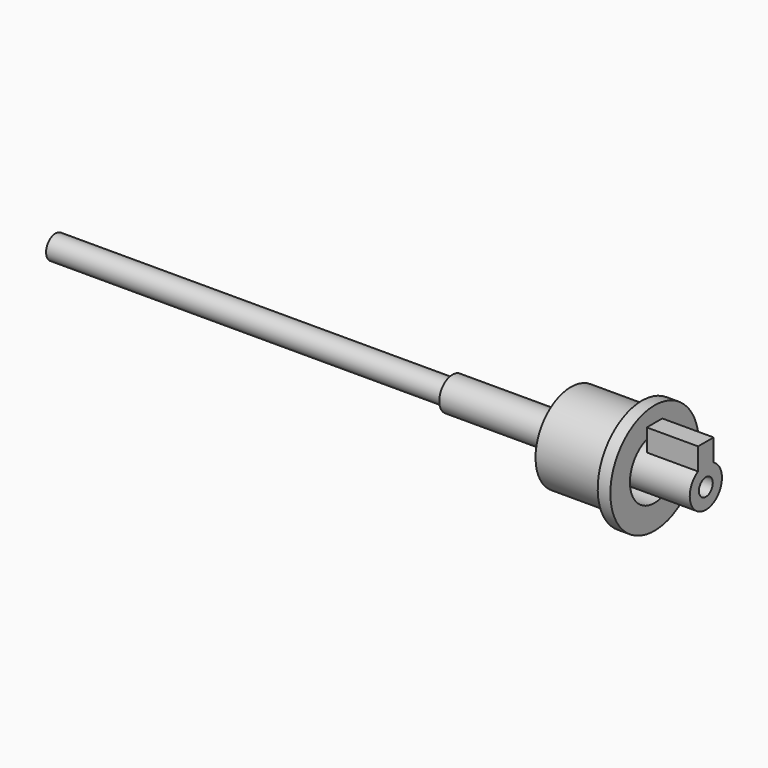
from build123d import *

# Parameters (mm, degrees)
F2_R     = 1.1
F3_DEPTH = 7
F5_DEPTH = 6.5


with BuildPart() as f1:
    # F0 (on Front) → F1 (revolve)
    with BuildSketch(Plane.XZ):
        Polygon((18.140339697, 28.0600738525), (-32.159660303, 28.0600738525), (-32.159660303, 26.5600738525), (50.240339697, 26.5600738525), (50.240339697, 29.1100738525), (36.640339697, 29.1100738525), (36.640339697, 30.4600738525), (43.740339697, 30.4600738525), (43.740339697, 33.5600738525), (42.140339697, 33.5600738525), (42.140339697, 32.1600738525), (33.140339697, 32.1600738525), (33.140339697, 28.6600738525), (18.140339697, 28.6600738525), align=None)
    revolve(axis=Axis((9.040339697, 0, 26.5600738525), (-1, 0, 0)))

    # F2 (on face) → F3 (cut)
    with BuildSketch(Plane.YZ.offset(50.240339697)):
        with Locations((0, 26.5600738525)):
            Circle(F2_R)
    extrude(amount=-F3_DEPTH, mode=Mode.SUBTRACT)

    # F4 (on face) → F5 (join, through all)
    with BuildSketch(Plane.YZ.offset(50.240339697)):
        with BuildLine():
            Line((-1.23, 31.5938151088), (-1.23, 28.7938151088))
            ThreePointArc((-1.23, 28.7938151088), (0, 29.1100738525), (1.23, 28.7938151088))
            Line((1.23, 28.7938151088), (1.23, 31.5938151088))
            Line((1.23, 31.5938151088), (-1.23, 31.5938151088))
        make_face()
    extrude(amount=-F5_DEPTH)


solid = f1.part
